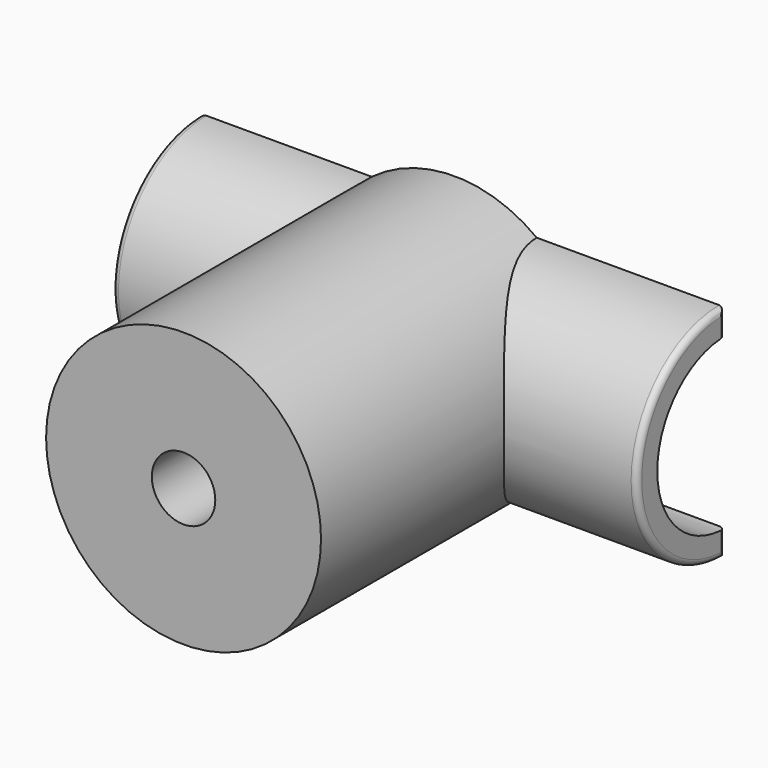
from build123d import *

# Parameters (mm, degrees)
F0_R      = 20.6375
F1_DEPTH  = 50.8
F4_DEPTH  = 78.74
F5_R      = 15.24
F6_DEPTH  = 38.1
F8_DEPTH  = 78.7410001
F9_R      = 4.7625
F10_DEPTH = 50.8010001
F11_R     = 0.889


with BuildPart() as f1:
    # F0 (on Front) → F1 (new body)
    with BuildSketch(Plane.XZ):
        Circle(F0_R)
    extrude(amount=F1_DEPTH)

    # F3 (on offset) → F4 (join)
    with BuildSketch(Plane.YZ.offset(40.64)):
        with BuildLine():
            Line((0, 12.7), (0, 16.51))
            ThreePointArc((0, 16.51), (-16.51, 0), (0, -16.51))
            Line((0, -16.51), (0, -12.7))
            ThreePointArc((0, -12.7), (-12.7, 0), (0, 12.7))
        make_face()
    extrude(amount=-F4_DEPTH)

    # F5 (on Front) → F6 (cut)
    with BuildSketch(Plane.XZ):
        Circle(F5_R)
    extrude(amount=F6_DEPTH, mode=Mode.SUBTRACT)

    # F7 (on offset) → F8 (cut, through all)
    with BuildSketch(Plane.YZ.offset(40.64)):
        with BuildLine():
            Line((0, -12.6999967271), (0, 12.7000032729))
            ThreePointArc((0, 12.7000032729), (-12.7, 3.2729e-06), (0, -12.6999967271))
        make_face()
    extrude(amount=-F8_DEPTH, mode=Mode.SUBTRACT)

    # F9 (on face) → F10 (cut, through all)
    with BuildSketch(Plane.XZ.offset(50.8)):
        Circle(F9_R)
    extrude(amount=-F10_DEPTH, mode=Mode.SUBTRACT)

    # F11
    f11_edges = [f1.edges().sort_by_distance(p)[0] for p in [
        (-38.1, 0, -14.605),
        (-38.1, 0, 14.605002),
        (40.64, 0, -14.605),
        (40.64, 0, 14.605002),
        (-38.1, -16.51, 0),
        (40.64, -16.51, 0),
    ]]
    fillet(f11_edges, radius=F11_R)


solid = f1.part
